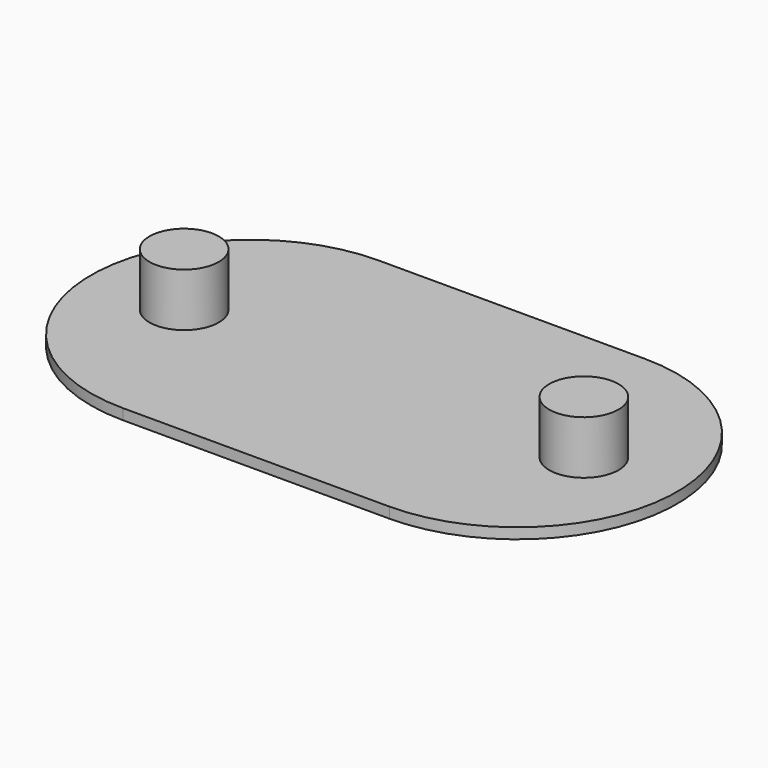
from build123d import *

# Parameters (mm, degrees)
F1_DEPTH = 1
F2_R     = 3.25
F3_DEPTH = 5


with BuildPart() as f1:
    # F0 (on Top) → F1 (new body)
    with BuildSketch(Plane.XY):
        with BuildLine():
            Line((12.5, 15), (-12.5, 15))
            ThreePointArc((-12.5, 15), (-27.5, 0), (-12.5, -15))
            Line((-12.5, -15), (12.5, -15))
            ThreePointArc((12.5, -15), (27.5, 0), (12.5, 15))
        make_face()
    extrude(amount=F1_DEPTH)

    # F2 (on face) → F3 (join)
    with BuildSketch(Plane.XY.offset(1)):
        with Locations((-18.75, 0)):
            Circle(F2_R)
        with Locations((18.75, 0)):
            Circle(F2_R)
    extrude(amount=F3_DEPTH)


solid = f1.part
